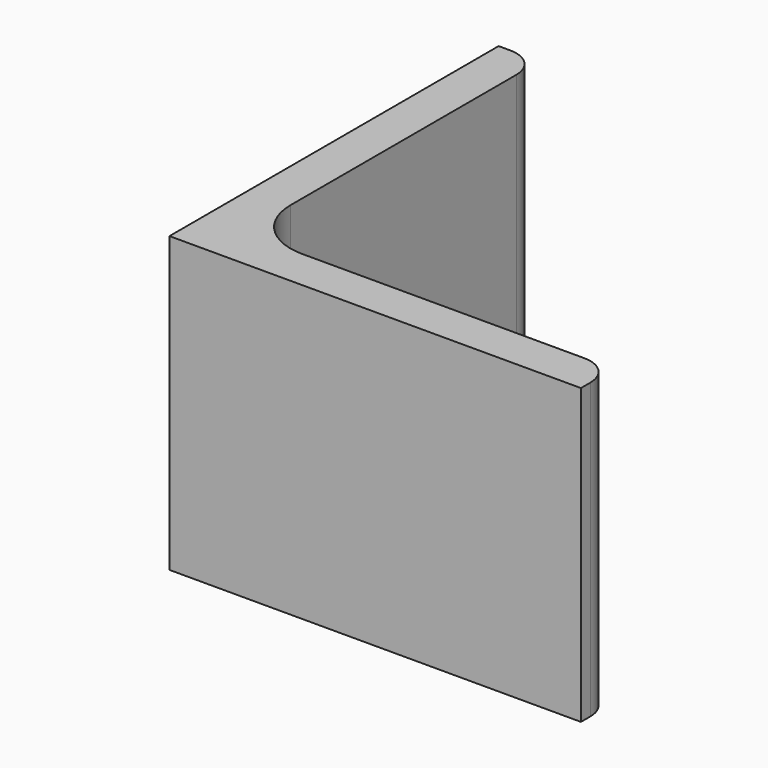
from build123d import *

# Parameters (mm, degrees)
EXTRUDE_DEPTH = 50


with BuildPart() as part:
    # Sketch → Extrude (new body)
    with BuildSketch(Plane.XY):
        with BuildLine():
            Line((0, 0), (70, 0))
            Line((70, 0), (70, 2))
            ThreePointArc((70, 2), (68.535534, 5.535534), (65, 7))
            Line((65, 7), (17, 7))
            ThreePointArc((7, 17), (9.928932, 9.928932), (17, 7))
            Line((7, 65), (7, 17))
            ThreePointArc((7, 65), (5.535534, 68.535534), (2, 70))
            Line((0, 70), (2, 70))
            Line((0, 0), (0, 70))
        make_face()
    extrude(amount=EXTRUDE_DEPTH)


solid = part.part
